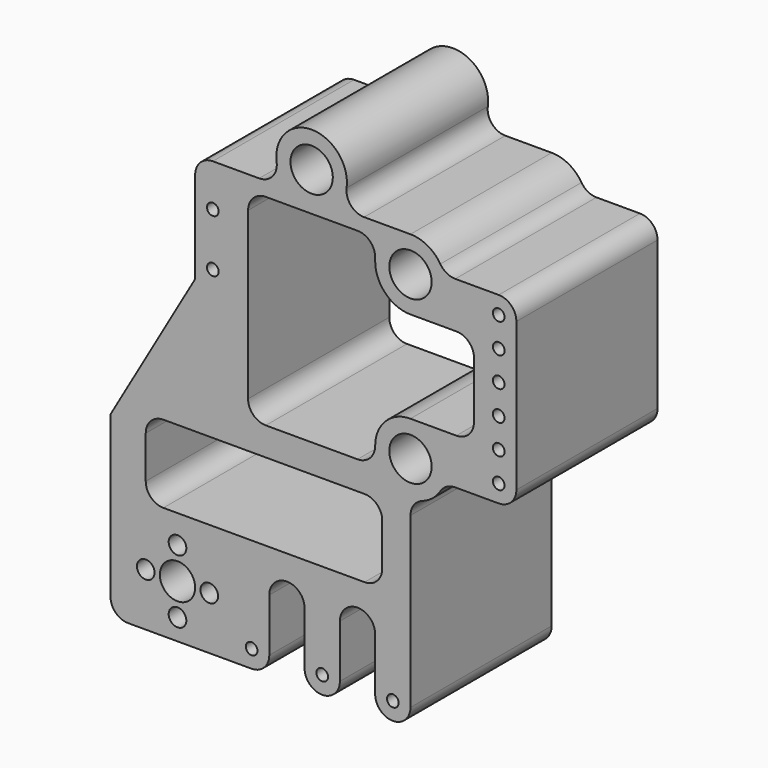
from build123d import *

# Parameters (mm, degrees)
F2_DEPTH  = 50
F0_R      = 6
F0_R_2    = 5
F3_DEPTH  = 50.001
F4_D      = 3.3
F5_D      = 5
F7_R      = 10
F8_DEPTH  = 1
F9_D      = 10.8
F9_DEPTH  = 18.75
F9_START  = 1
F9_TIP    = 3.2446473427
F10_D     = 6
F10_DEPTH = 18.75
F10_START = 21.1920655
F10_TIP   = 1.8025818571


with BuildPart() as f2:
    # F1 (on Front) → F2 (new body)
    with BuildSketch(Plane.XZ):
        with BuildLine():
            ThreePointArc((-2, -75), (3, -80), (8, -75))
            ThreePointArc((8, -75), (3, -70), (-2, -75))
        make_face()
        with BuildLine():
            ThreePointArc((-2, -75), (3, -70), (8, -75))
            Line((8, -75), (8, -60))
            ThreePointArc((8, -60), (13, -55), (18, -60))
            Line((18, -60), (18, -75))
            ThreePointArc((18, -75), (23, -80), (28, -75))
            Line((28, -75), (28, -27.1421356237))
            ThreePointArc((28, -27.1421356237), (28.9175170954, -24.2553842778), (31.3333333333, -22.4280904158))
            ThreePointArc((31.3333333333, -22.4280904158), (34.2415418806, -20.8130119002), (36.4590516936, -18.3333333333))
            ThreePointArc((36.4590516936, -18.3333333333), (38.2733480828, -16.6220248211), (40.6885775404, -16))
            Line((40.6885775404, -16), (53, -16))
            ThreePointArc((53, -16), (56.5355339059, -14.5355339059), (58, -11))
            Line((58, -11), (58, 31))
            ThreePointArc((58, 31), (56.5355339059, 34.5355339059), (53, 36))
            Line((53, 36), (40.6885775404, 36))
            ThreePointArc((40.6885775404, 36), (38.2733480828, 36.6220248211), (36.4590516936, 38.3333333333))
            ThreePointArc((36.4590516936, 38.3333333333), (32.8304589154, 41.7559503577), (28, 43))
            Line((28, 43), (14.8660687473, 43))
            ThreePointArc((14.8660687473, 43), (11.1022054838, 44.708597057), (9.9107124982, 48.6666666667))
            ThreePointArc((9.9107124982, 48.6666666667), (0, 60), (-9.9107124982, 48.6666666667))
            ThreePointArc((-9.9107124982, 48.6666666667), (-11.1022054838, 44.708597057), (-14.8660687473, 43))
            Line((-14.8660687473, 43), (-28, 43))
            ThreePointArc((-28, 43), (-31.5355339059, 41.5355339059), (-33, 38))
            Line((-33, 38), (-33, 12))
            Line((-33, 12), (-57, -29.5692193817))
            Line((-57, -29.5692193817), (-57, -75))
            ThreePointArc((-57, -75), (-55.5355339059, -78.5355339059), (-52, -80))
            Line((-52, -80), (-17, -80))
            ThreePointArc((-17, -80), (-13.4644660941, -78.5355339059), (-12, -75))
            Line((-12, -75), (-12, -60))
            ThreePointArc((-12, -60), (-7, -55), (-2, -60))
            Line((-2, -60), (-2, -75))
        make_face()
        with BuildLine():
            ThreePointArc((-47, -31), (-45.5355339059, -27.4644660941), (-42, -26))
            Line((-42, -26), (15, -26))
            ThreePointArc((15, -26), (18.5355339059, -27.4644660941), (20, -31))
            Line((20, -31), (20, -43))
            ThreePointArc((20, -43), (18.5355339059, -46.5355339059), (15, -48))
            Line((15, -48), (-42, -48))
            ThreePointArc((-42, -48), (-45.5355339059, -46.5355339059), (-47, -43))
            Line((-47, -43), (-47, -31))
        make_face(mode=Mode.SUBTRACT)
        with BuildLine():
            Line((-18, -13), (-18, 34))
            ThreePointArc((-18, 34), (-16.5355339059, 37.5355339059), (-13, 39))
            Line((-13, 39), (13, 39))
            ThreePointArc((13, 39), (16.5355339059, 37.5355339059), (18, 34))
            Line((18, 34), (18, 33))
            ThreePointArc((18, 33), (20.9289321881, 25.9289321881), (28, 23))
            Line((28, 23), (41, 23))
            ThreePointArc((41, 23), (44.5355339059, 21.5355339059), (46, 18))
            Line((46, 18), (46, 2))
            ThreePointArc((46, 2), (44.5355339059, -1.5355339059), (41, -3))
            Line((41, -3), (28, -3))
            ThreePointArc((28, -3), (20.9289321881, -5.9289321881), (18, -13))
            ThreePointArc((18, -13), (16.5355339059, -16.5355339059), (13, -18))
            Line((13, -18), (-13, -18))
            ThreePointArc((-13, -18), (-16.5355339059, -16.5355339059), (-18, -13))
        make_face(mode=Mode.SUBTRACT)
    extrude(amount=-F2_DEPTH)

    # F0 (on Front) → F3 (cut, through all)
    with BuildSketch(Plane.XZ):
        with Locations((0, 50)):
            Circle(F0_R)
        with Locations((28, 33)):
            Circle(F0_R)
        with Locations((28, -13)):
            Circle(F0_R)
        with Locations((-38, -65)):
            Circle(F0_R_2)
    extrude(amount=-F3_DEPTH, mode=Mode.SUBTRACT)

    # F4 (through all)
    with Locations(Plane.XZ):
        with Locations((53, 31), (53, 22.6), (53, 14.2), (53, 5.8), (53, -2.6), (53, -11), (-28, 16), (-28, 31), (-17, -75), (3, -75), (23, -75)):
            Hole(F4_D / 2)

    # F5 (through all)
    with Locations(Plane.XZ):
        with Locations((-47, -65), (-38, -56), (-29, -65), (-38, -74)):
            Hole(F5_D / 2)

    # F7 (on face) → F8 (cut)
    with BuildSketch(Plane(origin=(-29.9461524227, 0, 17.2894191624), x_dir=(0, -1, 0), z_dir=(-0.8660254038, 0, 0.5))):
        with Locations((-25, -31.5166604984)):
            Circle(F7_R)
    extrude(amount=-F8_DEPTH, mode=Mode.SUBTRACT)

    # F9
    # its depths count from where the whole tool has entered the part; down to there all is cleared
    with Locations(Plane(origin=(-29.9461524227, 0, 17.2894191624), x_dir=(0, -1, 0), z_dir=(-0.8660254038, 0, 0.5)).offset(-F9_START)):
        with Locations((-25, -31.5166604984)):
            Hole(F9_D / 2, depth=F9_DEPTH)
            with Locations((0, 0, -(F9_DEPTH + F9_TIP / 2))):  # 118° drill point
                Cone(0, F9_D / 2, F9_TIP, mode=Mode.SUBTRACT)

    # F10
    # its depths count from where the whole tool has entered the part; down to there all is cleared
    with Locations(Plane(origin=(-29.9461524227, 0, 17.2894191624), x_dir=(0, -1, 0), z_dir=(-0.8660254038, 0, 0.5))):
        with Locations((-25, -31.5166604984)):
            Hole(F10_D / 2, depth=F10_START)
    with Locations(Plane(origin=(-29.9461524227, 0, 17.2894191624), x_dir=(0, -1, 0), z_dir=(-0.8660254038, 0, 0.5)).offset(-F10_START)):
        with Locations((-25, -31.5166604984)):
            Hole(F10_D / 2, depth=F10_DEPTH)
            with Locations((0, 0, -(F10_DEPTH + F10_TIP / 2))):  # 118° drill point
                Cone(0, F10_D / 2, F10_TIP, mode=Mode.SUBTRACT)


solid = f2.part
